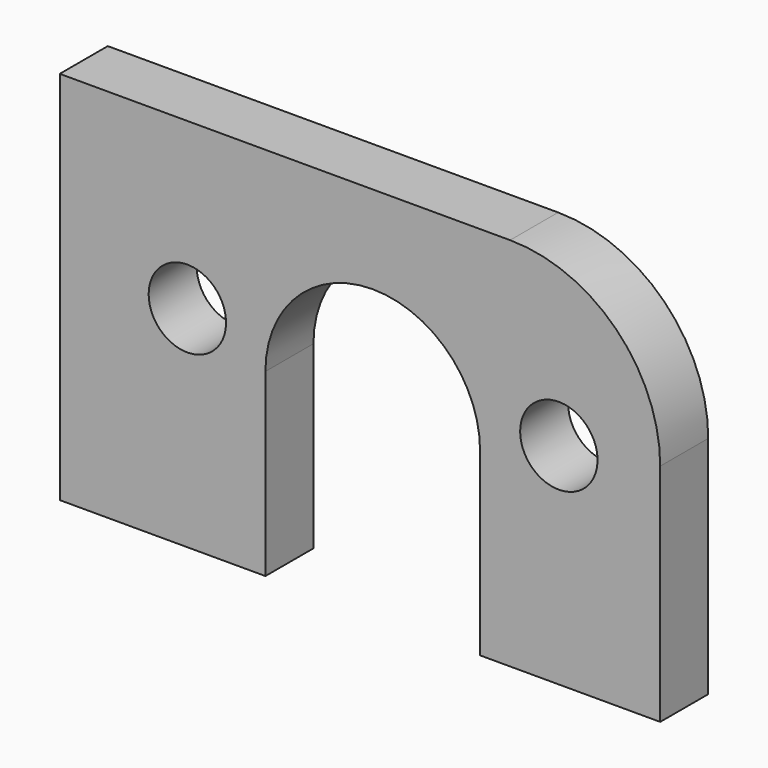
from build123d import *

# Parameters (mm, degrees)
BOX001_W        = 40
BOX001_H        = 4
BOX001_DEPTH    = 25
SKETCH002_R     = 2.5781
POCKET002_DEPTH = 4.001
FILLET_R        = 10


with BuildPart() as part:
    # Box001 → Box001 (new body)
    with BuildSketch(Plane(origin=(-768, 594, -530), x_dir=(1, 0, 0), z_dir=(0, 0, 1))):
        with Locations((20, 2)):
            Rectangle(BOX001_W, BOX001_H)
    extrude(amount=BOX001_DEPTH)

    # Sketch002 → Pocket002 (cut, through all)
    with BuildSketch(Plane(origin=(-768, 598, -530), x_dir=(-1, 0, 0), z_dir=(0, 1, 0))):
        with Locations((-33.247, 14)):
            Circle(SKETCH002_R)
        with Locations((-8.5, 14)):
            Circle(SKETCH002_R)
        with BuildLine():
            ThreePointArc((-13.7, 12), (-20.85, 19.15), (-28, 12))
            Line((-28, 12), (-28, 0))
            Line((-28, 0), (-13.7, 0))
            Line((-13.7, 12), (-13.7, 0))
        make_face()
    extrude(amount=-POCKET002_DEPTH, mode=Mode.SUBTRACT)

    # Fillet
    fillet_edges = [part.edges().sort_by_distance(p)[0] for p in [
        (-728, 596, -505),
    ]]
    fillet(fillet_edges, radius=FILLET_R)


solid = part.part
